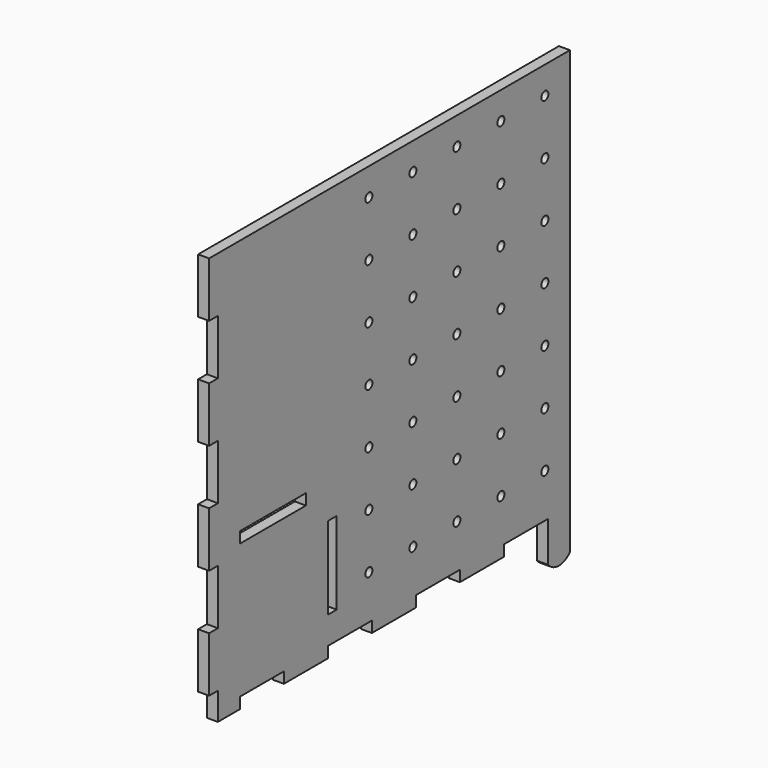
from build123d import *

# Parameters (mm, degrees)
F0_R     = 1.6
F0_W     = 30
F0_H     = 4
F0_W_2   = 4
F0_H_2   = 30
F1_DEPTH = 4


with BuildPart() as f1:
    # F0 (on Right) → F1 (new body)
    with BuildSketch(Plane.YZ):
        with BuildLine():
            Line((-119.978741, -65.165301), (-119.978741, -61.165301))
            Line((-119.978741, -61.165301), (-99.978741, -61.165301))
            Line((-99.978741, -61.165301), (-99.978741, -65.165301))
            Line((-99.978741, -65.165301), (-79.978741, -65.165301))
            Line((-79.978741, -65.165301), (-79.978741, -61.165301))
            Line((-79.978741, -61.165301), (-59.978741, -61.165301))
            Line((-59.978741, -61.165301), (-59.978741, -65.165301))
            Line((-59.978741, -65.165301), (-39.978741, -65.165301))
            Line((-39.978741, -65.165301), (-39.978741, -61.165301))
            Line((-39.978741, -61.165301), (-19.978741, -61.165301))
            Line((-19.978741, -61.165301), (-19.978741, -65.165301))
            Line((-19.978741, -65.165301), (0.021259, -65.165301))
            Line((0.021259, -65.165301), (0.021259, -61.165301))
            Line((0.021259, -61.165301), (20.021259, -61.165301))
            Line((20.021259, -61.165301), (20.021259, -65.165301))
            Line((20.021259, -65.165301), (20.021259, -75.818613))
            ThreePointArc((20.021259, -75.818613), (25.021259, -78.165301), (30.021259, -75.818613))
            Line((30.021259, -75.818613), (30.021259, -65.165301))
            Line((30.021259, -65.165301), (30.021259, -61.165301))
            Line((30.021259, -61.165301), (30.021259, 84.834699))
            Line((30.021259, 84.834699), (-129.978741, 84.834699))
            Line((-129.978741, 84.834699), (-133.978741, 84.834699))
            Line((-133.978741, 84.834699), (-133.978741, 64.834699))
            Line((-133.978741, 64.834699), (-129.978741, 64.834699))
            Line((-129.978741, 64.834699), (-129.978741, 44.834699))
            Line((-129.978741, 44.834699), (-133.978741, 44.834699))
            Line((-133.978741, 44.834699), (-133.978741, 24.834699))
            Line((-133.978741, 24.834699), (-129.978741, 24.834699))
            Line((-129.978741, 24.834699), (-129.978741, 4.834699))
            Line((-129.978741, 4.834699), (-133.978741, 4.834699))
            Line((-133.978741, 4.834699), (-133.978741, -15.165301))
            Line((-133.978741, -15.165301), (-129.978741, -15.165301))
            Line((-129.978741, -15.165301), (-129.978741, -35.165301))
            Line((-129.978741, -35.165301), (-133.978741, -35.165301))
            Line((-133.978741, -35.165301), (-133.978741, -55.165301))
            Line((-133.978741, -55.165301), (-129.978741, -55.165301))
            Line((-129.978741, -55.165301), (-129.978741, -65.165301))
            Line((-129.978741, -65.165301), (-119.978741, -65.165301))
        make_face()
        with Locations((-61.353443, -45.165301)):
            Circle(F0_R, mode=Mode.SUBTRACT)
        with Locations((-104.978741, -10.165301)):
            Rectangle(F0_W, F0_H, mode=Mode.SUBTRACT)
        with Locations((-77.978741, -36.165301)):
            Rectangle(F0_W_2, F0_H_2, mode=Mode.SUBTRACT)
        with Locations((-61.353443, -25.165301)):
            Circle(F0_R, mode=Mode.SUBTRACT)
        with Locations((-61.353443, -5.165301)):
            Circle(F0_R, mode=Mode.SUBTRACT)
        with Locations((-41.353443, -45.165301)):
            Circle(F0_R, mode=Mode.SUBTRACT)
        with Locations((-21.353443, -45.165301)):
            Circle(F0_R, mode=Mode.SUBTRACT)
        with Locations((-1.353443, -45.165301)):
            Circle(F0_R, mode=Mode.SUBTRACT)
        with Locations((18.646557, -45.165301)):
            Circle(F0_R, mode=Mode.SUBTRACT)
        with Locations((-41.353443, -25.165301)):
            Circle(F0_R, mode=Mode.SUBTRACT)
        with Locations((-21.353443, -25.165301)):
            Circle(F0_R, mode=Mode.SUBTRACT)
        with Locations((-41.353443, -5.165301)):
            Circle(F0_R, mode=Mode.SUBTRACT)
        with Locations((-21.353443, -5.165301)):
            Circle(F0_R, mode=Mode.SUBTRACT)
        with Locations((-1.353443, -25.165301)):
            Circle(F0_R, mode=Mode.SUBTRACT)
        with Locations((18.646557, -25.165301)):
            Circle(F0_R, mode=Mode.SUBTRACT)
        with Locations((-1.353443, -5.165301)):
            Circle(F0_R, mode=Mode.SUBTRACT)
        with Locations((18.646557, -5.165301)):
            Circle(F0_R, mode=Mode.SUBTRACT)
        with Locations((-61.353443, 14.834699)):
            Circle(F0_R, mode=Mode.SUBTRACT)
        with Locations((-61.353443, 34.834699)):
            Circle(F0_R, mode=Mode.SUBTRACT)
        with Locations((-61.353443, 54.834699)):
            Circle(F0_R, mode=Mode.SUBTRACT)
        with Locations((-61.353443, 74.834699)):
            Circle(F0_R, mode=Mode.SUBTRACT)
        with Locations((-41.353443, 14.834699)):
            Circle(F0_R, mode=Mode.SUBTRACT)
        with Locations((-21.353443, 14.834699)):
            Circle(F0_R, mode=Mode.SUBTRACT)
        with Locations((-41.353443, 34.834699)):
            Circle(F0_R, mode=Mode.SUBTRACT)
        with Locations((-21.353443, 34.834699)):
            Circle(F0_R, mode=Mode.SUBTRACT)
        with Locations((-1.353443, 14.834699)):
            Circle(F0_R, mode=Mode.SUBTRACT)
        with Locations((18.646557, 14.834699)):
            Circle(F0_R, mode=Mode.SUBTRACT)
        with Locations((-1.353443, 34.834699)):
            Circle(F0_R, mode=Mode.SUBTRACT)
        with Locations((18.646557, 34.834699)):
            Circle(F0_R, mode=Mode.SUBTRACT)
        with Locations((-41.353443, 54.834699)):
            Circle(F0_R, mode=Mode.SUBTRACT)
        with Locations((-21.353443, 54.834699)):
            Circle(F0_R, mode=Mode.SUBTRACT)
        with Locations((-41.353443, 74.834699)):
            Circle(F0_R, mode=Mode.SUBTRACT)
        with Locations((-21.353443, 74.834699)):
            Circle(F0_R, mode=Mode.SUBTRACT)
        with Locations((-1.353443, 54.834699)):
            Circle(F0_R, mode=Mode.SUBTRACT)
        with Locations((18.646557, 54.834699)):
            Circle(F0_R, mode=Mode.SUBTRACT)
        with Locations((-1.353443, 74.834699)):
            Circle(F0_R, mode=Mode.SUBTRACT)
        with Locations((18.646557, 74.834699)):
            Circle(F0_R, mode=Mode.SUBTRACT)
    extrude(amount=F1_DEPTH)


solid = f1.part
